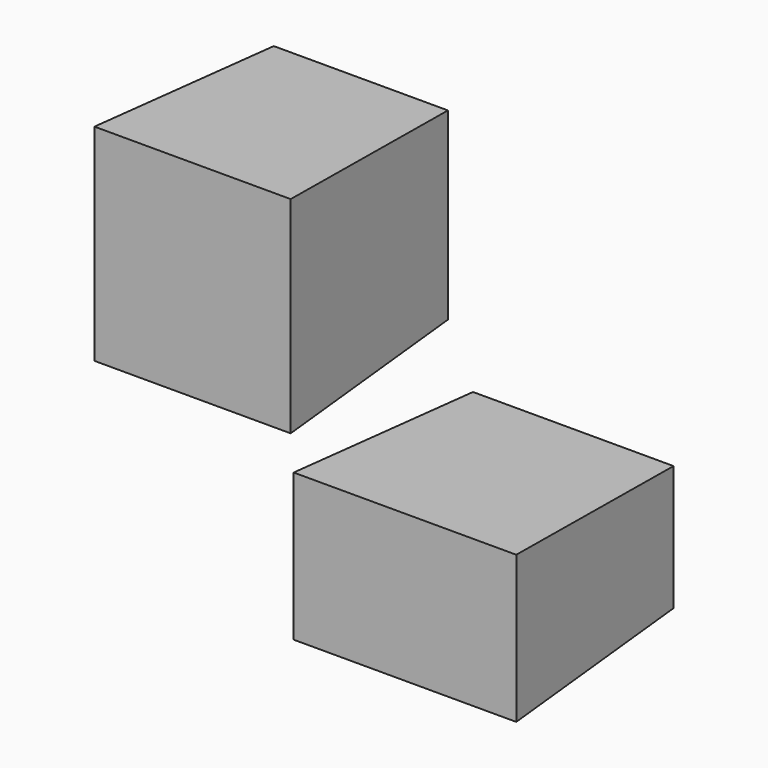
from build123d import *

# Parameters (mm, degrees)
F1_DEPTH = 52.578
F1_TAPER = -3
F0_W     = 43.5271216556
F0_H     = 46.035271138


with BuildPart() as f1:
    # F0 (on Front) → F1 (new body)
    with BuildSketch(Plane.XZ):
        Polygon((41.8783575296, 0), (19.1255491227, 0), (-8.2437768579, 0), (-8.2437768579, -31.2730111182), (41.8783575296, -31.2730111182), align=None)
    extrude(amount=F1_DEPTH, taper=F1_TAPER)


with BuildPart() as f1b:
    # F0 (on Front) → F1, piece 2 (new body)
    with BuildSketch(Plane.XZ):
        with Locations((-36.2725988962, 36.8958506733)):
            Rectangle(F0_W, F0_H)
    extrude(amount=F1_DEPTH, taper=F1_TAPER)


solid = Compound([f1.part, f1b.part])
